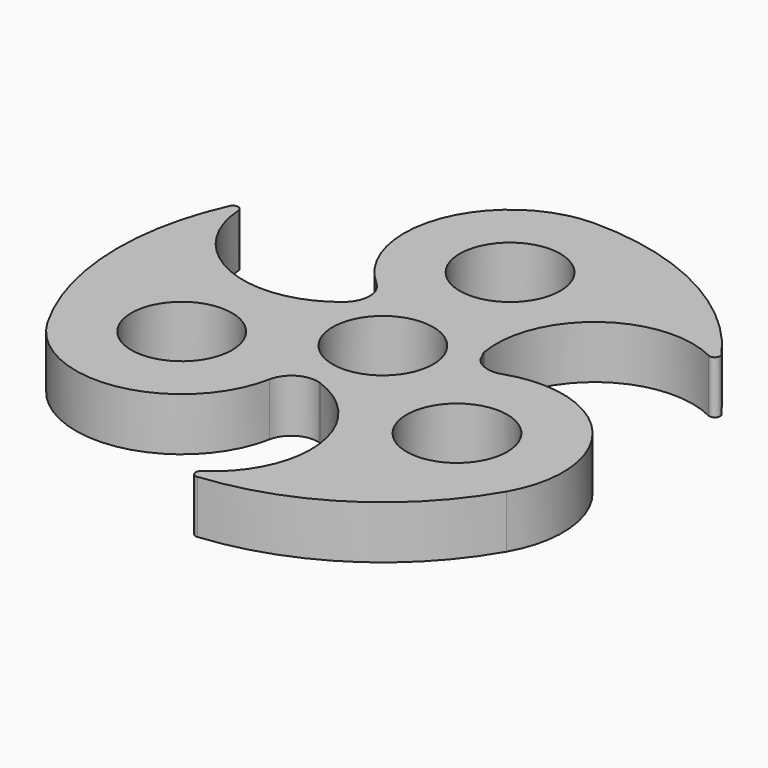
from build123d import *

# Parameters (mm, degrees)
F0_R     = 9.5
F1_DEPTH = 10


with BuildPart() as f1:
    # F0 (on Top) → F1 (new body)
    with BuildSketch(Plane.XY):
        with BuildLine():
            ThreePointArc((4.132956, -47.94259), (3.744232, -49.110023), (4.782215, -49.770779))
            ThreePointArc((4.782215, -49.770779), (27.044468, -42.054688), (43.30127, -25))
            ThreePointArc((43.30127, -25), (41.419362, -2.285849), (19.487565, 3.916617))
            ThreePointArc((19.487565, 3.916617), (16.448696, 3.85034), (13.932971, 5.556286))
            ThreePointArc((13.932971, 5.556286), (13.363645, 6.467605), (13.002182, 7.479524))
            ThreePointArc((13.002182, 7.479524), (12.9667, 7.638871), (12.93644, 7.799292))
            ThreePointArc((12.93644, 7.799292), (20.135141, 25.81008), (39.453023, 27.55054))
            ThreePointArc((39.453023, 27.55054), (40.658412, 27.797611), (40.711651, 29.026909))
            ThreePointArc((40.711651, 29.026909), (22.898194, 44.44854), (0, 50))
            ThreePointArc((0, 50), (-18.730078, 37.013144), (-13.135672, 14.918418))
            ThreePointArc((-13.135672, 14.918418), (-11.420718, 11.254193), (-12.978548, 7.520458))
            ThreePointArc((-12.978548, 7.520458), (-12.984469, 7.510231), (-12.990381, 7.5))
            Line((-12.990381, 7.5), (-12.996487, 7.503525))
            ThreePointArc((-12.996487, 7.503525), (-13.108038, 7.401876), (-13.222605, 7.303639))
            ThreePointArc((-13.222605, 7.303639), (-32.419755, 4.532504), (-43.585979, 20.39205))
            ThreePointArc((-43.585979, 20.39205), (-44.402643, 21.312412), (-45.493866, 20.74387))
            ThreePointArc((-45.493866, 20.74387), (-49.942662, -2.393853), (-43.30127, -25))
            ThreePointArc((-43.30127, -25), (-22.689284, -34.727295), (-6.351893, -18.835035))
            ThreePointArc((-6.351893, -18.835035), (-4.036058, -15.517728), (-0.023633, -14.999981))
            ThreePointArc((-0.023633, -14.999981), (-0.011817, -14.999995), (0, -15))
            Line((0, -15), (0, -15.007051))
            ThreePointArc((0, -15.007051), (0.143806, -15.052831), (0.286165, -15.102932))
            ThreePointArc((0.286165, -15.102932), (12.284614, -30.342583), (4.132956, -47.94259))
        make_face()
        with Locations((-25.980762, -15)):
            Circle(F0_R, mode=Mode.SUBTRACT)
        Circle(F0_R, mode=Mode.SUBTRACT)
        with Locations((25.980762, -15)):
            Circle(F0_R, mode=Mode.SUBTRACT)
        with Locations((0, 30)):
            Circle(F0_R, mode=Mode.SUBTRACT)
        with BuildLine():
            ThreePointArc((13.002182, 7.479524), (13.363645, 6.467605), (13.932971, 5.556286))
            ThreePointArc((13.932971, 5.556286), (13.501864, 6.534499), (13.002182, 7.479524))
        make_face()
        with BuildLine():
            ThreePointArc((-0.023633, -14.999981), (-0.011812, -15.003501), (0, -15.007051))
            Line((0, -15.007051), (0, -15))
            ThreePointArc((0, -15), (-0.011817, -14.999995), (-0.023633, -14.999981))
        make_face()
        with BuildLine():
            ThreePointArc((-12.990381, 7.5), (-12.984469, 7.510231), (-12.978548, 7.520458))
            ThreePointArc((-12.978548, 7.520458), (-12.987507, 7.51198), (-12.996487, 7.503525))
            Line((-12.996487, 7.503525), (-12.990381, 7.5))
        make_face()
    extrude(amount=F1_DEPTH)


solid = f1.part
